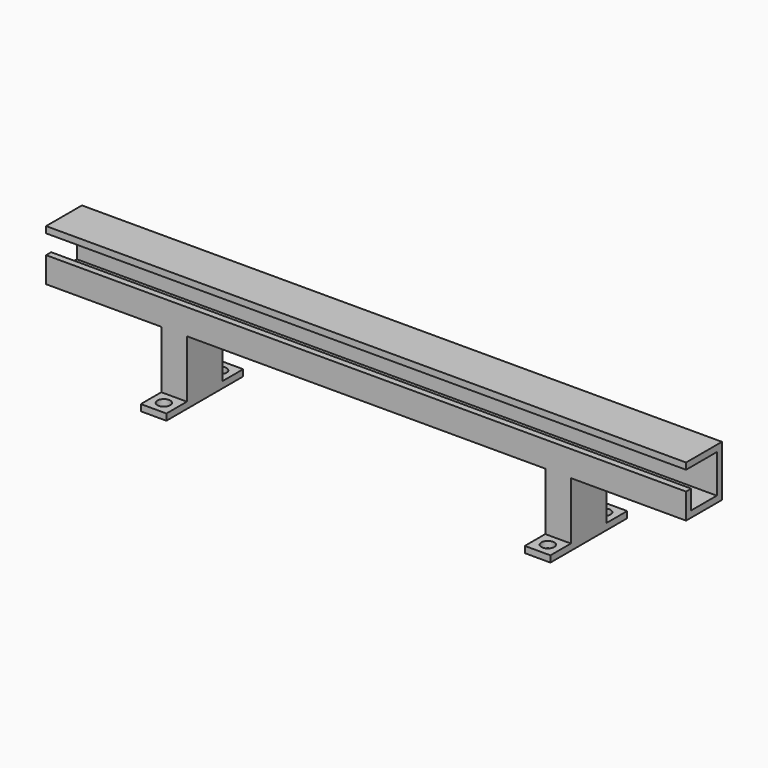
from build123d import *

# Parameters (mm, degrees)
F0_W     = 203.2
F0_H     = 203.2
F0_R     = 50.8
F0_H_2   = 355.6
F0_W_2   = 2844.8
F0_W_3   = 914.4
F1_DEPTH = 50.8
F2_DEPTH = 914.4
F3_W     = 50.8
F3_H     = 152.4
F4_DEPTH = 5963.92
F6_DEPTH = 1143


with BuildPart() as f1:
    # F0 (on Top) → F1 (new body)
    with BuildSketch(Plane.XY):
        with Locations((-1524, 279.4)):
            Rectangle(F0_W, F0_H)
        with Locations((-1524, 279.4)):
            Circle(F0_R, mode=Mode.SUBTRACT)
        with Locations((-1524, -279.4)):
            Rectangle(F0_W, F0_H)
        with Locations((-1524, -279.4)):
            Circle(F0_R, mode=Mode.SUBTRACT)
        with Locations((-1524, 0)):
            Rectangle(F0_W, F0_H_2)
        Rectangle(F0_W_2, F0_H_2)
        with Locations((-2082.8, 0)):
            Rectangle(F0_W_3, F0_H_2)
        with Locations((2082.8, 0)):
            Rectangle(F0_W_3, F0_H_2)
        with Locations((1524, 0)):
            Rectangle(F0_W, F0_H_2)
        with Locations((1524, 279.4)):
            Rectangle(F0_W, F0_H)
        with Locations((1524, 279.4)):
            Circle(F0_R, mode=Mode.SUBTRACT)
        with Locations((1524, -279.4)):
            Rectangle(F0_W, F0_H)
        with Locations((1524, -279.4)):
            Circle(F0_R, mode=Mode.SUBTRACT)
    extrude(amount=F1_DEPTH)

    # F0 (on Top) → F2 (join)
    with BuildSketch(Plane.XY):
        Rectangle(F0_W_2, F0_H_2)
        with Locations((2082.8, 0)):
            Rectangle(F0_W_3, F0_H_2)
        with Locations((-2082.8, 0)):
            Rectangle(F0_W_3, F0_H_2)
        with Locations((-1524, 0)):
            Rectangle(F0_W, F0_H_2)
        with Locations((1524, 0)):
            Rectangle(F0_W, F0_H_2)
    extrude(amount=F2_DEPTH)

    # F3 (on face) → F4 (cut)
    with BuildSketch(Plane(origin=(-2540, 0, 0), x_dir=(0, -1, 0), z_dir=(-1, 0, 0))):
        Polygon((-127, 863.6), (-127, 558.8), (127, 558.8), (127, 711.2), (127, 863.6), align=None)
        with Locations((203.2, 787.4)):
            Rectangle(F3_W, F3_H)
        with Locations((152.4, 787.4)):
            Rectangle(F3_W, F3_H)
    extrude(amount=-F4_DEPTH, mode=Mode.SUBTRACT)

    # F5 (on face) → F6 (cut)
    with BuildSketch(Plane.XZ.offset(177.8)):
        Polygon((-1422.4, 508), (-1422.4, 50.8), (-1422.4, 0), (1422.4, 0), (1422.4, 50.8), (1422.4, 508), align=None)
        Polygon((2540, 0), (2540, 508), (1625.6, 508), (1625.6, 50.8), (1625.6, 0), align=None)
        Polygon((-2540, 0), (-1625.6, 0), (-1625.6, 50.8), (-1625.6, 508), (-2540, 508), align=None)
    extrude(amount=-F6_DEPTH, mode=Mode.SUBTRACT)


solid = f1.part
